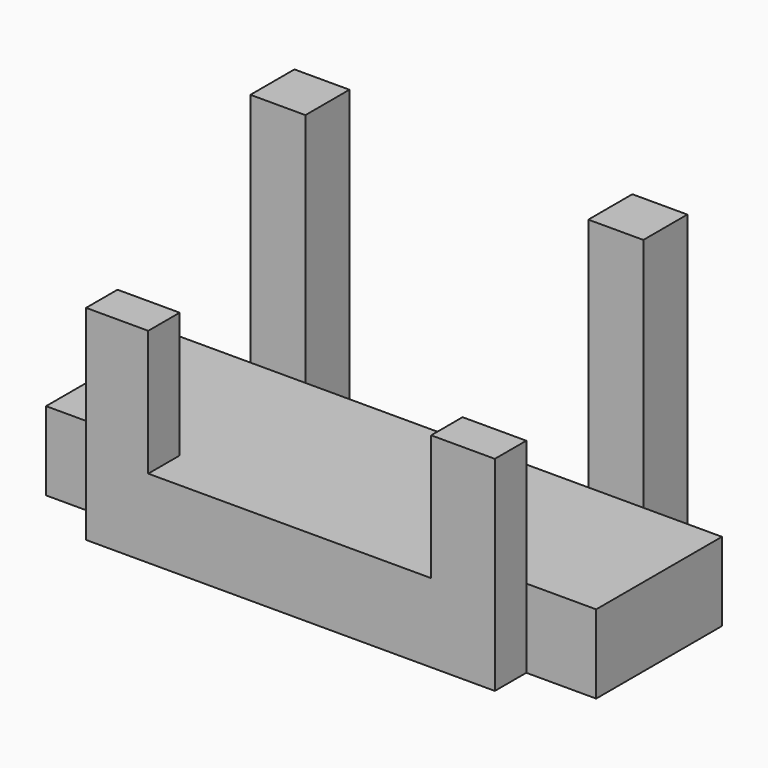
from build123d import *

# Parameters (mm, degrees)
F0_W      = 7
F0_H      = 7
F1_DEPTH  = 10
F2_W      = 7
F2_H      = 7
F3_DEPTH  = 30
F4_W      = 52.018345
F4_H      = 10
F5_DEPTH  = 5
F6_W      = 52.018345
F6_H      = 5
F7_DEPTH  = 16
F8_W      = 36
F8_H      = 16
F9_DEPTH  = 25
F10_DEPTH = 25


with BuildPart() as f1:
    # F0 (on Top) → F1 (new body)
    with BuildSketch(Plane.XY):
        Polygon((65.849743, 2.373854), (65.849743, 22.373854), (55.849743, 22.373854), (48.849743, 22.373854), (12.849743, 22.373854), (5.849743, 22.373854), (-4.150257, 22.373854), (-4.150257, 2.373854), align=None)
        with Locations((52.349743, 25.873854)):
            Rectangle(F0_W, F0_H)
        with Locations((9.349743, 25.873854)):
            Rectangle(F0_W, F0_H)
    extrude(amount=F1_DEPTH)

    # F2 (on face) → F3 (join)
    with BuildSketch(Plane.XY.offset(10)):
        with Locations((9.349743, 25.873854)):
            Rectangle(F2_W, F2_H)
        with Locations((52.349743, 25.873854)):
            Rectangle(F2_W, F2_H)
    extrude(amount=F3_DEPTH)

    # F4 (on face) → F5 (join)
    with BuildSketch(Plane.XZ.offset(-2.373854)):
        with Locations((30.946101, 5)):
            Rectangle(F4_W, F4_H)
    extrude(amount=F5_DEPTH)

    # F6 (on face) → F7 (join)
    with BuildSketch(Plane.XY.offset(10)):
        with Locations((30.946101, -0.126146)):
            Rectangle(F6_W, F6_H)
    extrude(amount=F7_DEPTH)

    # F8 (on face) → F9 (cut)
    with BuildSketch(Plane.XZ.offset(2.626146)):
        with Locations((30.849743, 18)):
            Rectangle(F8_W, F8_H)
    extrude(amount=-F9_DEPTH, mode=Mode.SUBTRACT)

    # F8 (on face) → F10 (cut)
    with BuildSketch(Plane.XZ.offset(2.626146)):
        with Locations((30.849743, 18)):
            Rectangle(F8_W, F8_H)
    extrude(amount=-F10_DEPTH, mode=Mode.SUBTRACT)


solid = f1.part
